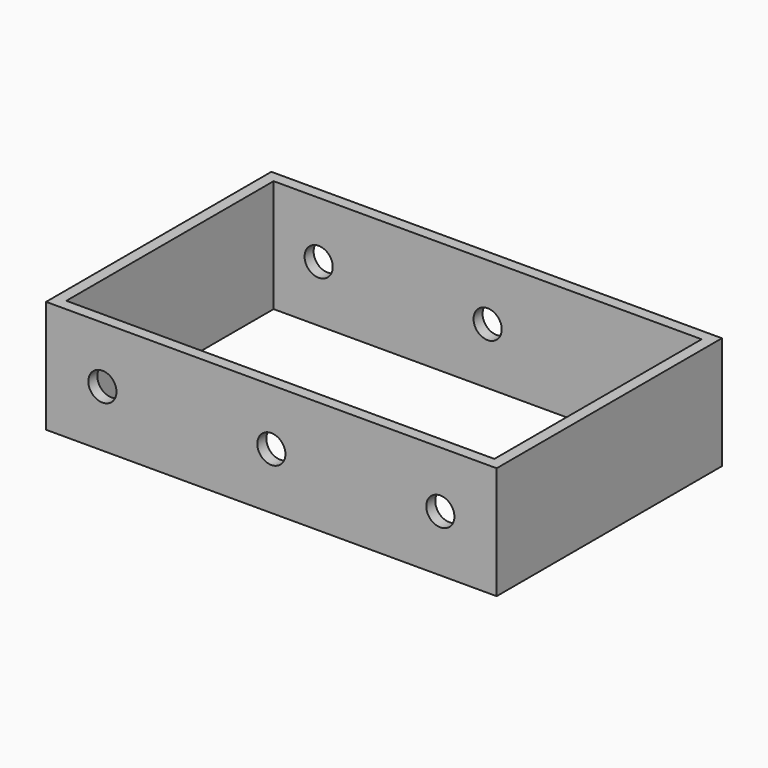
from build123d import *

# Parameters (mm, degrees)
F0_W          = 80
F0_H          = 50
F0_W_2        = 76
F0_H_2        = 46
F1_DEPTH      = 10
F1_DEPTH_BACK = 10
F2_R          = 2.5
F3_DEPTH      = 40
F3_DEPTH_BACK = 40


with BuildPart() as f1:
    # F0 (on Top) → F1 (new body, two sides)
    with BuildSketch(Plane.XY) as f1_sk:
        Rectangle(F0_W, F0_H)
        Rectangle(F0_W_2, F0_H_2, mode=Mode.SUBTRACT)
    extrude(amount=F1_DEPTH)
    extrude(f1_sk.sketch, amount=-F1_DEPTH_BACK)

    # F2 (on Front) → F3 (cut, two sides)
    with BuildSketch(Plane.XZ) as f3_sk:
        with Locations((-30, 0)):
            Circle(F2_R)
        Circle(F2_R)
        with Locations((30, 0)):
            Circle(F2_R)
    extrude(amount=F3_DEPTH, mode=Mode.SUBTRACT)
    extrude(f3_sk.sketch, amount=-F3_DEPTH_BACK, mode=Mode.SUBTRACT)


solid = f1.part
